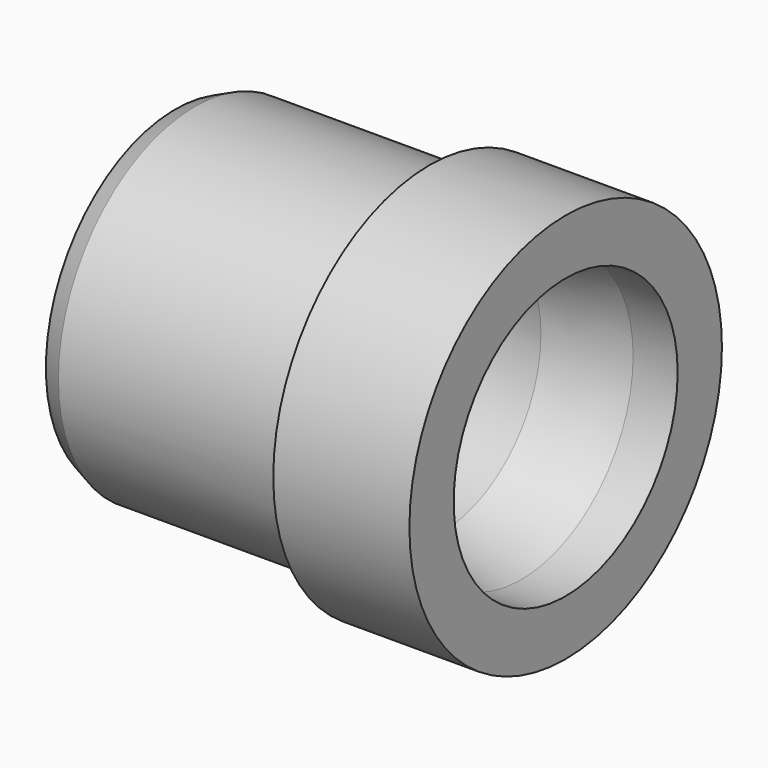
from build123d import *


with BuildPart() as f1:
    # F0 (on Top) → F1 (revolve)
    with BuildSketch(Plane.XY):
        with BuildLine():
            Line((0, 10.332034), (0, 0))
            Line((0, 0), (15, 0))
            Line((15, 0), (15, 1.8))
            ThreePointArc((15, 1.8), (14.575736, 1.975736), (14.4, 2.4))
            ThreePointArc((14.4, 2.4), (14.575736, 2.824264), (15, 3))
            Line((15, 3), (51.737146, 3))
            Line((51.737146, 3), (67.159845, 6.093667))
            Line((67.159845, 6.093667), (75.813033, 6.093667))
            Line((75.813033, 6.093667), (75.813033, 16.841185))
            Line((75.813033, 16.841185), (49.37445, 16.841185))
            Line((49.37445, 16.841185), (49.37445, 12.015897))
            Line((49.37445, 12.015897), (3.78983, 12.015897))
            Line((3.78983, 12.015897), (0, 10.332034))
        make_face()
    revolve(axis=Axis((26.506836, -21.1, 0), (1, 0, 0)))


solid = f1.part
